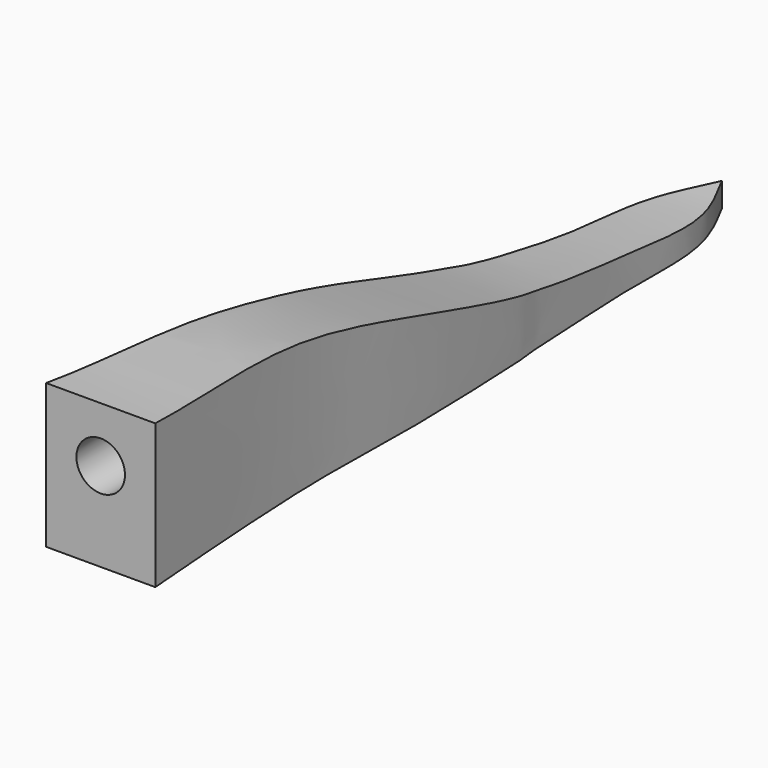
from build123d import *

# Parameters (mm, degrees)
F1_DEPTH = 21.43125
F2_R     = 9.525
F3_DEPTH = 50.8
F6_DEPTH = 42.8625
F7_DEPTH = 56.6029267844


with BuildPart() as f1:
    # F0 (on Right) → F1 (new body, symmetric)
    with BuildSketch(Plane.YZ):
        Polygon((-152.4, 69.85), (-152.4, 0), (152.4, 0), (152.4, 19.05), align=None)
    extrude(amount=F1_DEPTH, both=True)

    # F2 (on face) → F3 (cut)
    with BuildSketch(Plane.XZ.offset(152.4)):
        with Locations((0, 34.925)):
            Circle(F2_R)
    extrude(amount=-F3_DEPTH, mode=Mode.SUBTRACT)

    # F4 (on face) → F6 (cut, through all)
    with BuildSketch(Plane.YZ.offset(21.43125)):
        with BuildLine():
            add(Edge.make_bspline(
                [(152.4, 9.525), (145.6626264039, 9.3034385089), (127.280375047, 8.6247502943), (53.5793953216, 15.9743535222), (1.1403037634, 31.6893786789), (-80.5729571952, 56.4766030906), (-128.8748406327, 54.2920234152), (-152.4, 56.6019266844)],
                knots=[0, 0, 0, 0, 0.1269042114, 0.3459339129, 0.5446819601, 0.7798043344, 1, 1, 1, 1], degree=3))
            Line((152.4, 9.525), (152.4, 19.05))
            Line((152.4, 19.05), (-152.4, 69.85))
            Line((-152.4, 69.85), (-152.4, 56.6019266844))
        make_face()
    extrude(amount=-F6_DEPTH, mode=Mode.SUBTRACT)

    # F5 (on face) → F7 (cut, through all)
    with BuildSketch(Plane(origin=(0, 0, 0), x_dir=(1, 0, 0), z_dir=(0, 0, -1))):
        with BuildLine():
            Line((-21.43125, -152.4), (0, -152.4))
            add(Edge.make_bspline(
                [(0, -152.4), (-3.3558727394, -146.0765654935), (-9.9237538335, -133.7007785762), (-11.8787256678, -114.3258473013), (-11.0215482181, -91.6633926102), (-12.4604341506, -69.8208444493), (-13.5091656689, -42.6226360553), (-14.8119868837, -38.0644041176), (-16.3574454916, 2.4960515253), (-16.782460798, 29.866255958), (-15.0283347148, 71.5581711335), (-19.0481620175, 122.3116445749), (-21.43125, 152.4)],
                knots=[0, 0, 0, 0, 0.0864766171, 0.1692460301, 0.2579696017, 0.3507391087, 0.4454750995, 0.4896652941, 0.6057296254, 0.708896574, 0.8274241593, 1, 1, 1, 1], degree=3))
            Line((-21.43125, 152.4), (-21.43125, -152.4))
        make_face()
        with BuildLine():
            add(Edge.make_bspline(
                [(0, -152.4), (3.3558727394, -146.0765654935), (9.9237538335, -133.7007785762), (11.8787256678, -114.3258473013), (11.0215482181, -91.6633926102), (12.4604341506, -69.8208444493), (13.5091656689, -42.6226360553), (14.8119868837, -38.0644041176), (16.3574454916, 2.4960515253), (16.782460798, 29.866255958), (15.0283347148, 71.5581711335), (19.0481620175, 122.3116445749), (21.43125, 152.4)],
                knots=[0, 0, 0, 0, 0.0864766171, 0.1692460301, 0.2579696017, 0.3507391087, 0.4454750995, 0.4896652941, 0.6057296254, 0.708896574, 0.8274241593, 1, 1, 1, 1], degree=3))
            Line((0, -152.4), (21.43125, -152.4))
            Line((21.43125, -152.4), (21.43125, 152.4))
        make_face()
    extrude(amount=-F7_DEPTH, mode=Mode.SUBTRACT)


solid = f1.part
